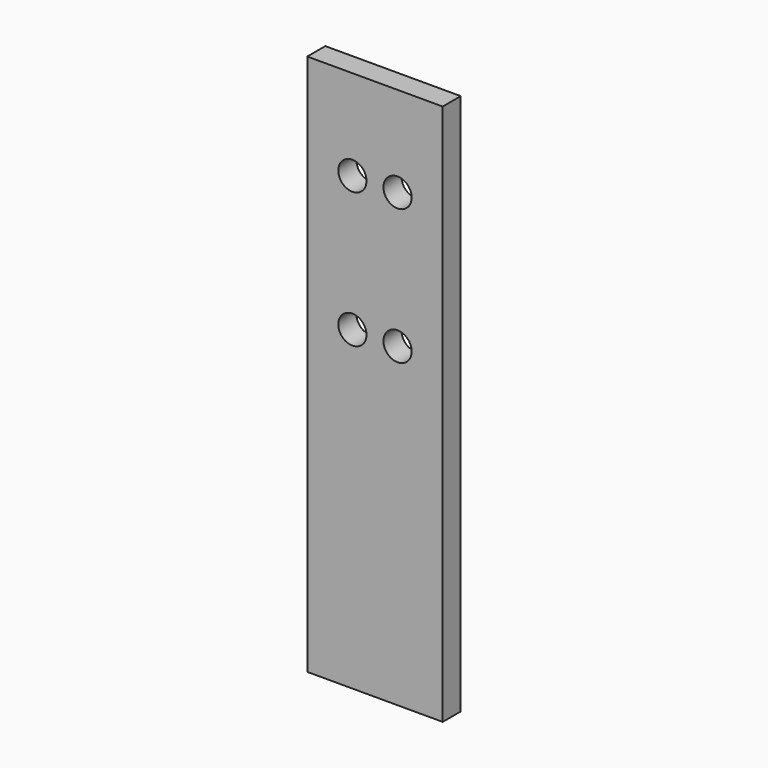
from build123d import *

# Parameters (mm, degrees)
F0_W     = 19.05
F0_H     = 3.175
F1_DEPTH = 38.1
F2_R     = 1.984375
F3_DEPTH = 3.175


with BuildPart() as f1:
    # F0 (on Top) → F1 (new body, symmetric)
    with BuildSketch(Plane.XY):
        Rectangle(F0_W, F0_H)
    extrude(amount=F1_DEPTH, both=True)

    # F2 (on face) → F3 (cut, through all)
    with BuildSketch(Plane.XZ.offset(1.5875)):
        with Locations((3.175, 25.4)):
            Circle(F2_R)
        with Locations((-3.175, 25.4)):
            Circle(F2_R)
        with Locations((3.175, 6.35)):
            Circle(F2_R)
        with Locations((-3.175, 6.35)):
            Circle(F2_R)
    extrude(amount=-F3_DEPTH, mode=Mode.SUBTRACT)


solid = f1.part
